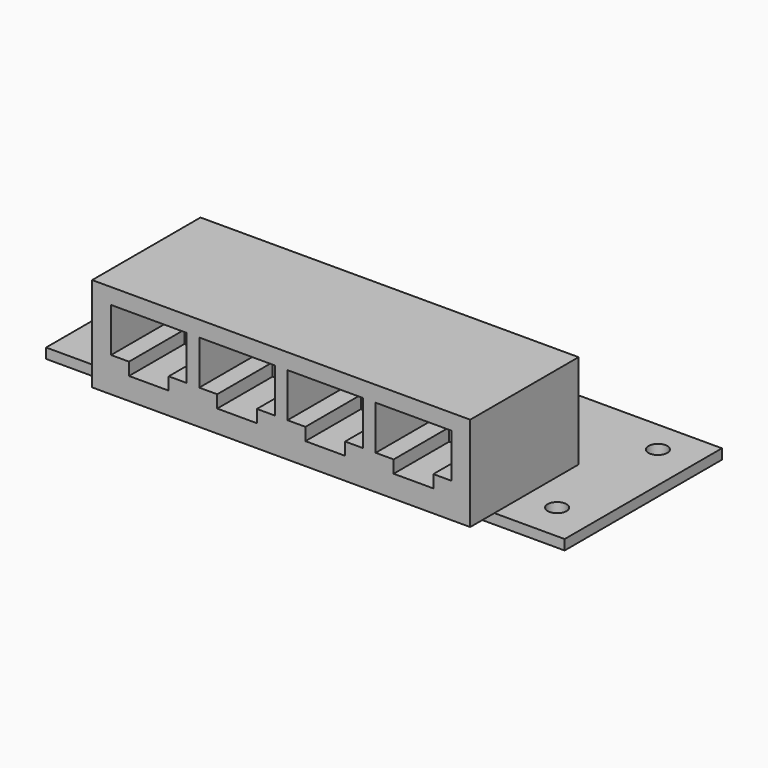
from build123d import *

# Parameters (mm, degrees)
F0_W     = 82.3
F0_H     = 31.2
F0_R     = 1.5
F0_R_2   = 1.65
F1_DEPTH = 1.6
F2_W     = 60
F2_H     = 16.7
F2_R     = 1.65
F2_H_2   = 4.8
F3_DEPTH = 15
F4_W     = 6.3
F4_H     = 2
F5_DEPTH = 11


with BuildPart() as f1:
    # F0 (on Top) → F1 (new body)
    with BuildSketch(Plane.XY):
        Rectangle(F0_W, F0_H)
        with Locations((-34.85, -9.6)):
            Circle(F0_R, mode=Mode.SUBTRACT)
        with Locations((-27, -9.6)):
            Circle(F0_R_2, mode=Mode.SUBTRACT)
        with Locations((27.3, -9.6)):
            Circle(F0_R_2, mode=Mode.SUBTRACT)
        with Locations((35.15, -9.6)):
            Circle(F0_R, mode=Mode.SUBTRACT)
        with Locations((-34.85, 10.4)):
            Circle(F0_R, mode=Mode.SUBTRACT)
        with Locations((35.15, 10.4)):
            Circle(F0_R, mode=Mode.SUBTRACT)
    extrude(amount=F1_DEPTH)

    # F2 (on face) → F3 (join)
    with BuildSketch(Plane.XY.offset(1.6)):
        with Locations((0, -7.25)):
            Rectangle(F2_W, F2_H)
        with Locations((-27, -9.6)):
            Circle(F2_R, mode=Mode.SUBTRACT)
        with Locations((27.3, -9.6)):
            Circle(F2_R, mode=Mode.SUBTRACT)
        with Locations((0, -18)):
            Rectangle(F2_W, F2_H_2)
        with Locations((-27, -9.6)):
            Circle(F2_R)
        with Locations((27.3, -9.6)):
            Circle(F2_R)
    extrude(amount=F3_DEPTH)

    # F4 (on face) → F5 (cut)
    with BuildSketch(Plane.XZ.offset(20.4)):
        Polygon((-15, 14.1), (-27, 14.1), (-27, 7.1), (-24.1502, 7.1), (-17.8502, 7.1), (-15, 7.1), align=None)
        Polygon((-1, 14.1), (-13, 14.1), (-13, 7.1), (-10.1502, 7.1), (-3.8502, 7.1), (-1, 7.1), align=None)
        Polygon((13, 14.1), (1, 14.1), (1, 7.1), (3.8498, 7.1), (10.1498, 7.1), (13, 7.1), align=None)
        Polygon((27, 14.1), (15, 14.1), (15, 7.1), (17.8498, 7.1), (24.1498, 7.1), (27, 7.1), align=None)
        with Locations((20.9998, 6.1)):
            Rectangle(F4_W, F4_H)
        with Locations((6.9998, 6.1)):
            Rectangle(F4_W, F4_H)
        with Locations((-7.0002, 6.1)):
            Rectangle(F4_W, F4_H)
        with Locations((-21.0002, 6.1)):
            Rectangle(F4_W, F4_H)
    extrude(amount=-F5_DEPTH, mode=Mode.SUBTRACT)


solid = f1.part
